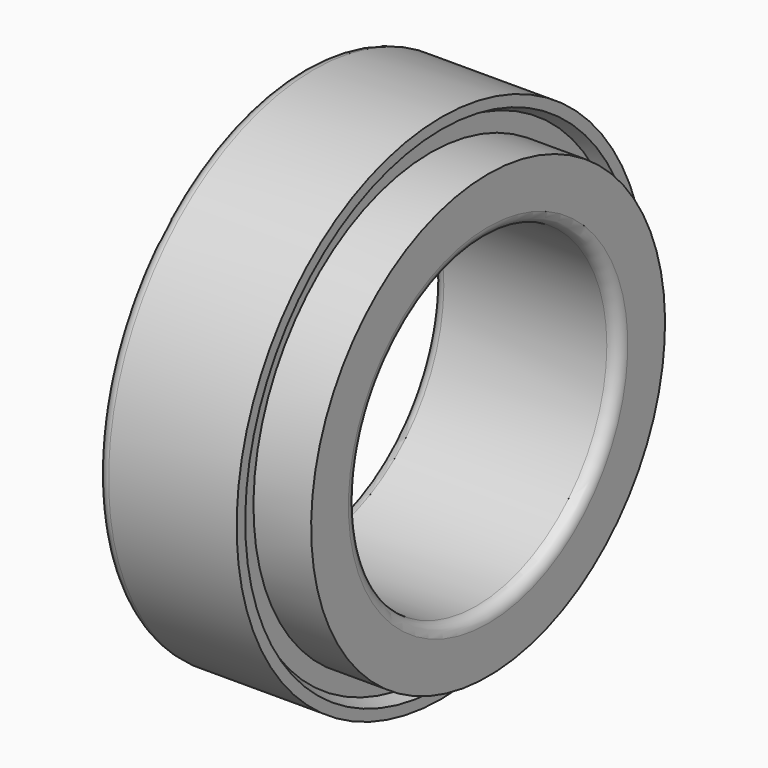
from build123d import *


with BuildPart() as f1:
    # F0 (on Front) → F1 (revolve)
    with BuildSketch(Plane.XZ):
        with BuildLine():
            Line((12, 22), (1, 22))
            ThreePointArc((1, 22), (0.292893, 21.707107), (0, 21))
            Line((0, 21), (0, 20.106995))
            Line((0, 20.106995), (2.439906, 20.106995))
            Line((2.439906, 20.106995), (2.439906, 16.057838))
            Line((2.439906, 16.057838), (0, 16.057838))
            Line((0, 16.057838), (0, 15))
            ThreePointArc((0, 15), (0.292893, 14.292893), (1, 14))
            Line((1, 14), (15, 14))
            ThreePointArc((15, 14), (15.707107, 14.292893), (16, 15))
            Line((16, 15), (16, 19))
            Line((16, 19), (12, 19))
            Line((12, 19), (11.044365, 19))
            Line((11.044365, 19), (11.044365, 20.570962))
            Line((11.044365, 20.570962), (12, 21.077106))
            Line((12, 21.077106), (12, 22))
        make_face()
    revolve(axis=Axis((11.88774, 0, 0), (1, 0, 0)))


solid = f1.part
